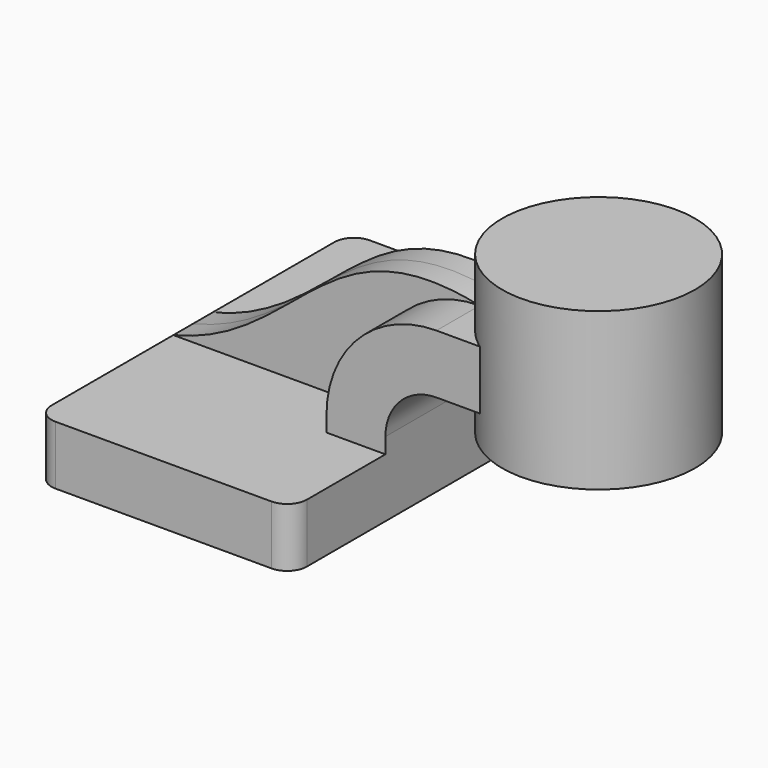
from build123d import *

# Parameters (mm, degrees)
F1_DEPTH = 63.5
F0_W     = 19.6030134281
F0_H     = 19.05
F2_DEPTH = 25.4
F3_DEPTH = 7.9375
F5_R     = 6.35


with BuildPart() as f1:
    # F0 (on Front) → F1 (new body, symmetric)
    with BuildSketch(Plane.XZ):
        Polygon((22.225, 9.525), (-41.275, 9.525), (-41.275, -9.525), (41.275, -9.525), (41.275, 9.525), align=None)
    extrude(amount=F1_DEPTH, both=True)

    # F0 (on Front) → F2 (join, symmetric)
    with BuildSketch(Plane.XZ):
        with BuildLine():
            Line((22.225, 14.5675246471), (22.225, 9.525))
            Line((22.225, 9.525), (41.275, 9.525))
            Line((41.275, 9.525), (41.275, 14.5675246471))
            ThreePointArc((41.275, 14.5675246471), (46.1106670426, 26.2418576045), (57.785, 31.0775246471))
            Line((57.785, 31.0775246471), (70.2790474574, 31.0775246471))
            Line((70.2790474574, 31.0775246471), (70.2790474574, 50.1275246471))
            Line((70.2790474574, 50.1275246471), (57.785, 50.1275246471))
            ThreePointArc((57.785, 50.1275246471), (32.640282861, 39.7122417861), (22.225, 14.5675246471))
        make_face()
        with Locations((80.0805541714, 40.6025246471)):
            Rectangle(F0_W, F0_H)
    extrude(amount=F2_DEPTH, both=True)

    # F0 (on Front) → F3 (join, symmetric)
    with BuildSketch(Plane.XZ):
        with BuildLine():
            add(Edge.make_bspline(
                [(-41.275, 9.525), (0, 19.6168608963), (7.4018002488, 61.1333376465), (57.785, 50.1275246471)],
                knots=[0, 0, 0, 0, 107.0581552602, 107.0581552602, 107.0581552602, 107.0581552602], degree=3))
            Line((-41.275, 9.525), (22.225, 9.525))
            Line((22.225, 9.525), (22.225, 14.5675246471))
            ThreePointArc((22.225, 14.5675246471), (32.640282861, 39.7122417861), (57.785, 50.1275246471))
        make_face()
    extrude(amount=F3_DEPTH, both=True)

    # F5
    f5_edges = [f1.edges().sort_by_distance(p)[0] for p in [
        (41.275, -63.5, 0),
        (-41.275, -63.5, 0),
        (41.275, 63.5, 0),
        (-41.275, 63.5, 0),
    ]]
    fillet(f5_edges, radius=F5_R)


with BuildPart() as f4:
    # F0 (on Front) → F4 (revolve)
    with BuildSketch(Plane.XZ):
        Polygon((89.8820608854, 72.0070831388), (89.8820608854, 50.1275246471), (89.8820608854, 31.0775246471), (89.8820608854, 21.2070831388), (121.0790474574, 21.2070831388), (121.0790474574, 72.0070831388), align=None)
    revolve(axis=Axis((89.8820608854, 0, 46.6070831388), (0, 0, -1)))


solid = Compound([f1.part, f4.part])
